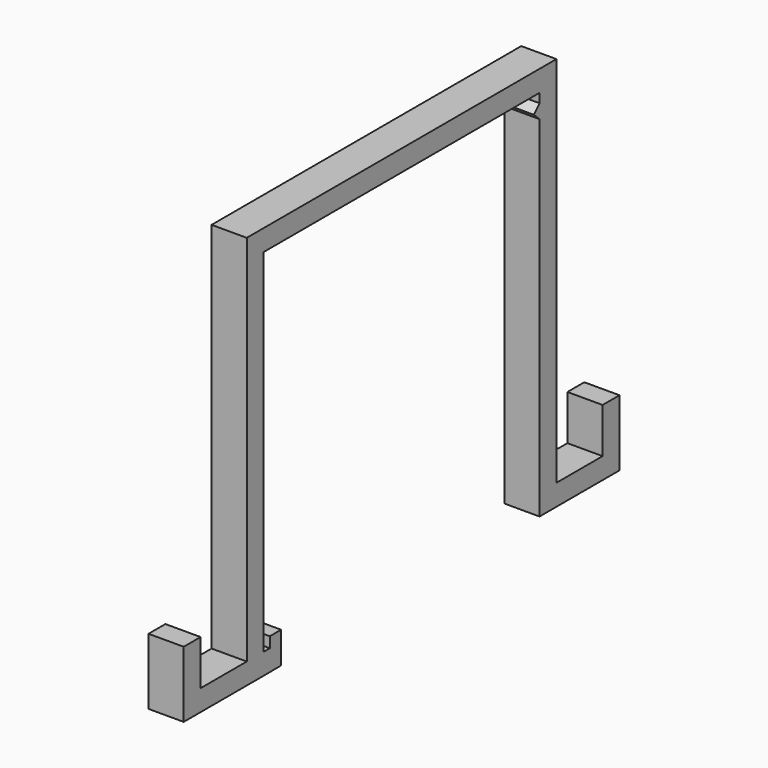
from build123d import *

# Parameters (mm, degrees)
F1_DEPTH = 5


with BuildPart() as f1:
    # F0 (on Right) → F1 (new body)
    with BuildSketch(Plane.YZ):
        Polygon((-24.5, 50), (0, 50), (24.5, 50), (24.5, 48.7), (23.500942, 47.656599), (24.5, 46.7), (24.5, 0), (24.5, -3), (38.7, -3), (38.7, 6.4), (35.7, 6.4), (35.7, 0), (27.5, 0), (27.5, 53), (0, 53), (-27.5, 53), (-27.5, 0), (-35.7, 0), (-35.7, 6.4), (-38.7, 6.4), (-38.7, -3), (-24.5, -3), (-21.4, -2.972846), (-21.4, 1.5), (-23.4, 1.5), (-23.4, 0), (-24.5, 0), align=None)
    extrude(amount=F1_DEPTH)


solid = f1.part
